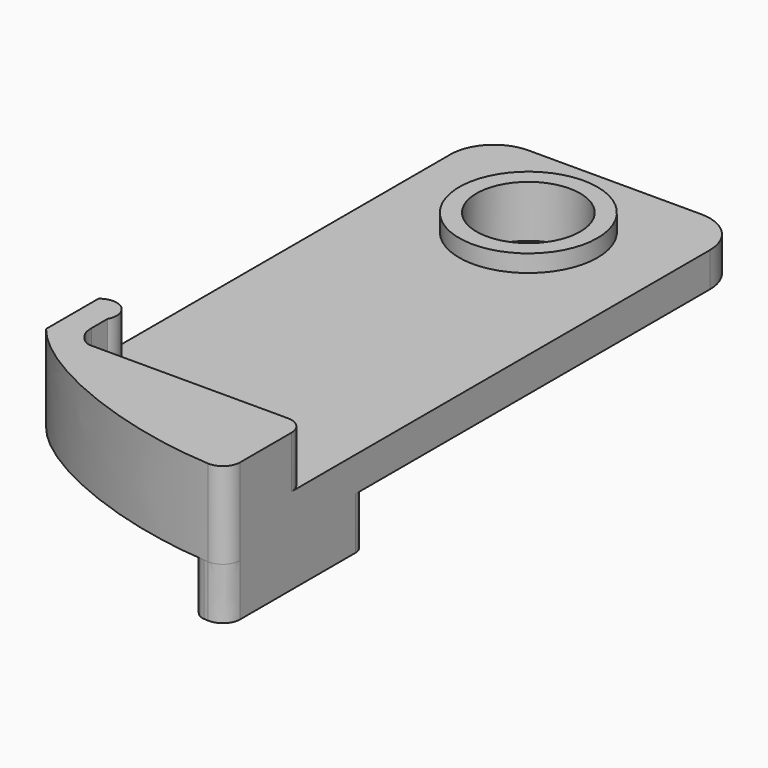
from build123d import *

# Parameters (mm, degrees)
F1_DEPTH = 10
F0_R     = 8
F2_DEPTH = 4
F0_R_2   = 6
F3_DEPTH = 6
F5_R     = 2
F7_DEPTH = 6
F8_R     = 1.5


with BuildPart() as f1:
    # F0 (on Top) → F1 (new body)
    with BuildSketch(Plane.XY):
        with BuildLine():
            Line((15, -37.5), (15, -26))
            Line((15, -26), (-9.9611850455, -26))
            add(Edge.make_bspline(
                [(-11.8869803846, -23.3454480823), (-11.8503261617, -24.0200703773), (-11.7257091732, -24.4668508278), (-11.1064253641, -25.4653853658), (-10.3231083129, -25.9576724499), (-9.9611850455, -26)],
                knots=[0, 0, 0, 0, 0.3405412191, 0.6578755277, 1, 1, 1, 1], degree=3))
            Line((-11.8869803846, -23.3454480823), (-11.8869803846, -21))
            ThreePointArc((-11.8869803846, -21), (-12.3717296786, -18.4168176701), (-15, -18.4196364135))
            Line((-15, -18.4196364135), (-15, -26))
            add(Edge.make_bspline(
                [(-15, -26), (-10.2944150567, -32.0423617959), (3.415344283, -37.3965017498), (15, -37.5)],
                knots=[0, 0, 0, 0, 32.1286476528, 32.1286476528, 32.1286476528, 32.1286476528], degree=3))
        make_face()
    extrude(amount=F1_DEPTH)


with BuildPart() as f2:
    # F0 (on Top) → F2 (new body)
    with BuildSketch(Plane.XY):
        with BuildLine():
            ThreePointArc((15, 32.5), (13.5355339059, 36.0355339059), (10, 37.5))
            Line((10, 37.5), (-10, 37.5))
            ThreePointArc((-10, 37.5), (-13.5355339059, 36.0355339059), (-15, 32.5))
            Line((-15, 32.5), (-15, -18.4196364135))
            ThreePointArc((-15, -18.4196364135), (-12.3717296786, -18.4168176701), (-11.8869803846, -21))
            Line((-11.8869803846, -21), (-11.8869803846, -23.3454480823))
            add(Edge.make_bspline(
                [(-11.8869803846, -23.3454480823), (-11.8503261617, -24.0200703773), (-11.7257091732, -24.4668508278), (-11.1064253641, -25.4653853658), (-10.3231083129, -25.9576724499), (-9.9611850455, -26)],
                knots=[0, 0, 0, 0, 0.3405412191, 0.6578755277, 1, 1, 1, 1], degree=3))
            Line((-9.9611850455, -26), (15, -26))
            Line((15, -26), (15, 32.5))
        make_face()
        with Locations((0, 25)):
            Circle(F0_R, mode=Mode.SUBTRACT)
    extrude(amount=F2_DEPTH)

    # F0 (on Top) → F3 (join)
    with BuildSketch(Plane.XY):
        with Locations((0, 25)):
            Circle(F0_R)
        with Locations((0, 25)):
            Circle(F0_R_2, mode=Mode.SUBTRACT)
    extrude(amount=F3_DEPTH)

    # F4: union F1
    add(f1.part)

    # F5
    f5_edges = [f2.edges().sort_by_distance(p)[0] for p in [
        (15, -26, 7),
        (15, -37.5, 5),
    ]]
    fillet(f5_edges, radius=F5_R)

    # F6 (on face) → F7 (join)
    with BuildSketch(Plane(origin=(0, 0, 0), x_dir=(1, 0, 0), z_dir=(0, 0, -1))):
        with BuildLine():
            add(Edge.make_bspline(
                [(11, 37.2695901222), (11.6289216889, 37.3346734853), (12.2554361711, 37.3865849072), (12.8779100925, 37.4246547986)],
                knots=[28.4914152983, 28.4914152983, 28.4914152983, 28.4914152983, 30.1861311863, 30.1861311863, 30.1861311863, 30.1861311863], degree=3))
            Line((11, 37.2695901222), (11, 17.2695901222))
            Line((11, 17.2695901222), (15, 17.2695901222))
            Line((15, 17.2695901222), (15, 35.4283847632))
            add(Edge.make_bspline(
                [(12.8779100925, 37.4246547986), (12.9997851475, 37.4321085568), (13.1257670983, 37.4308511004), (13.2548827191, 37.4198425025), (13.3858269049, 37.3981737159), (13.516965577, 37.3652625635), (13.7771948673, 37.2763649582), (13.9062664101, 37.2201858037), (14.0319471175, 37.1523455077), (14.1523190287, 37.0732018707), (14.2655986066, 36.9836823621), (14.4751385881, 36.7865661207), (14.571406291, 36.6789625216), (14.6577504243, 36.5636464215), (14.7331363723, 36.4423414141), (14.7970899201, 36.3169400414), (14.9017074178, 36.0626228243), (14.9425625457, 35.9337377832), (14.9721844022, 35.8043605761), (14.9910543263, 35.676157773), (15, 35.5504875377), (15, 35.4283847632)],
                knots=[0, 0, 0, 0, 0, 0, 0, 0.2489631265, 0.2489631265, 0.2489631265, 0.2489631265, 0.2489631265, 0.5, 0.5, 0.5, 0.5, 0.5, 0.7510368735, 0.7510368735, 0.7510368735, 0.7510368735, 0.7510368735, 1, 1, 1, 1, 1, 1, 1], degree=6))
        make_face()
    extrude(amount=F7_DEPTH)

    # F8
    f8_edges = [f2.edges().sort_by_distance(p)[0] for p in [
        (11, -17.26959, -3),
        (15, -17.26959, -3),
        (11, -37.26959, -3),
    ]]
    fillet(f8_edges, radius=F8_R)


solid = f2.part
